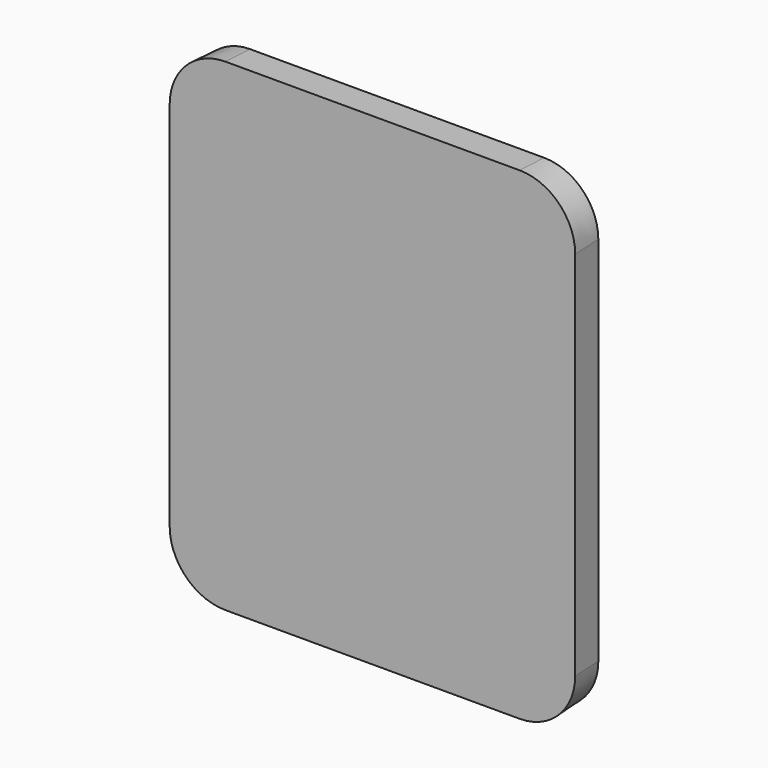
from build123d import *

# Parameters (mm, degrees)
F1_DEPTH = 2
F1_TAPER = -3


with BuildPart() as f1:
    # F0 (on Front) → F1 (new body)
    with BuildSketch(Plane.XZ):
        with BuildLine():
            ThreePointArc((13, 12), (11.9748737342, 14.4748737342), (9.5, 15.5))
            Line((9.5, 15.5), (-9.5, 15.5))
            ThreePointArc((-9.5, 15.5), (-11.9748737342, 14.4748737342), (-13, 12))
            Line((-13, 12), (-13, -12))
            ThreePointArc((-13, -12), (-11.9748737342, -14.4748737342), (-9.5, -15.5))
            Line((-9.5, -15.5), (9.5, -15.5))
            ThreePointArc((9.5, -15.5), (11.9748737342, -14.4748737342), (13, -12))
            Line((13, -12), (13, 12))
        make_face()
    extrude(amount=F1_DEPTH, taper=F1_TAPER)


solid = f1.part
